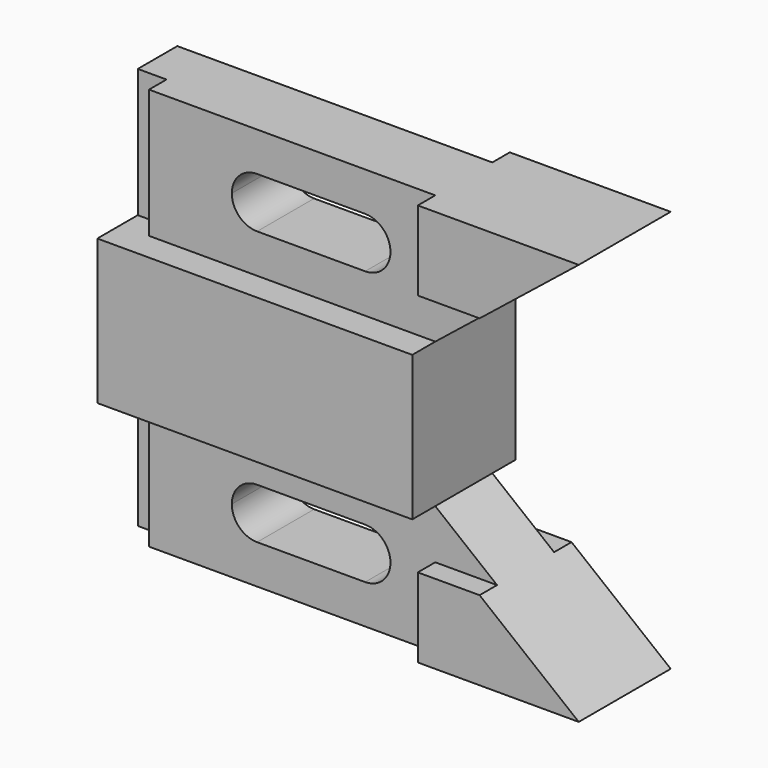
from build123d import *

# Parameters (mm, degrees)
F1_DEPTH = 7.874
F2_DEPTH = 14.224
F3_DEPTH = 12.7
F0_W     = 6.35
F0_H     = 28.448
F4_DEPTH = 7.874
F5_DEPTH = 3.048


with BuildPart() as f1:
    # F0 (on Front) → F1 (new body, symmetric)
    with BuildSketch(Plane.XZ):
        Polygon((6.35, 44.45), (6.35, 16.002), (69.596, 16.002), (83.2485, 26.924), (69.596, 26.924), (69.596, 44.45), align=None)
        with BuildLine():
            ThreePointArc((24.638, 30.226), (26.274687, 34.177313), (30.226, 35.814))
            Line((30.226, 35.814), (54.102, 35.814))
            ThreePointArc((54.102, 35.814), (58.053313, 34.177313), (59.69, 30.226))
            ThreePointArc((59.69, 30.226), (58.053313, 26.274687), (54.102, 24.638))
            Line((54.102, 24.638), (30.226, 24.638))
            ThreePointArc((30.226, 24.638), (26.274687, 26.274687), (24.638, 30.226))
        make_face(mode=Mode.SUBTRACT)
    extrude(amount=F1_DEPTH, both=True)

    # F0 (on Front) → F2 (join, symmetric)
    with BuildSketch(Plane.XZ):
        Polygon((0, 16.002), (0, 0), (0, -16.002), (6.35, -16.002), (69.596, -16.002), (69.596, 0), (69.596, 16.002), (6.35, 16.002), align=None)
    extrude(amount=F2_DEPTH, both=True)

    # F0 (on Front) → F3 (join, symmetric)
    with BuildSketch(Plane.XZ):
        Polygon((69.596, 26.924), (83.2485, 26.924), (105.156, 44.45), (69.596, 44.45), align=None)
    extrude(amount=F3_DEPTH, both=True)

    # F0 (on Front) → F4 (join)
    with BuildSketch(Plane.XZ):
        with Locations((3.175, 30.226)):
            Rectangle(F0_W, F0_H)
    extrude(amount=-F4_DEPTH)

    # F0 (on Front) → F5 (join)
    with BuildSketch(Plane.XZ):
        with Locations((3.175, 30.226)):
            Rectangle(F0_W, F0_H)
    extrude(amount=F5_DEPTH)

    # F6: F1 across plane


with BuildPart() as f1_1:
    add(f1.part)
    add(f1.part.mirror(Plane.XY))


solid = f1_1.part
